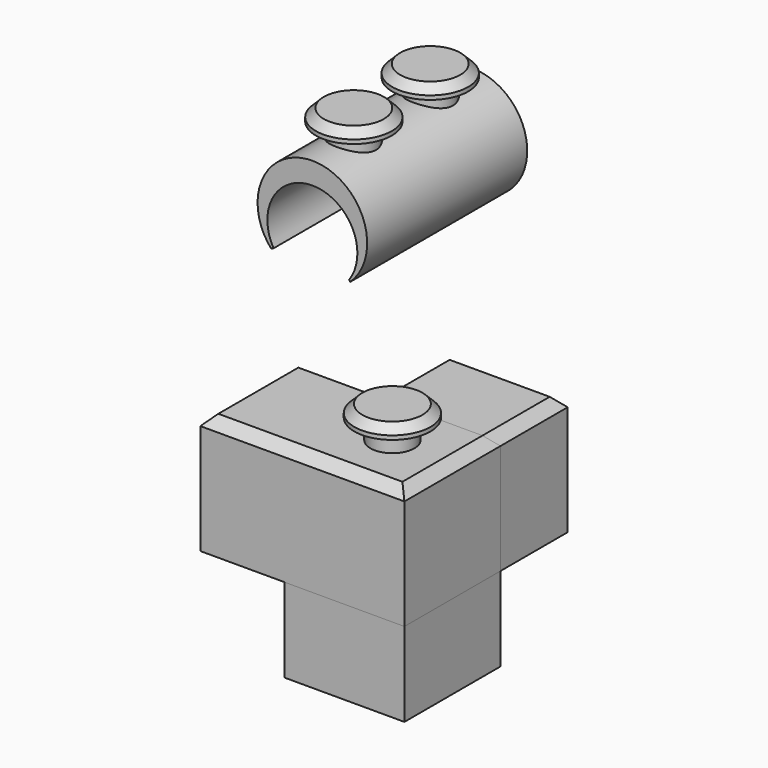
from build123d import *

# Parameters (mm, degrees)
F0_W       = 30
F0_H       = 30
F1_DEPTH   = 15
F3_W       = 30
F3_H       = 30
F3_R       = 10.75
F4_DEPTH   = 21
F5_COUNT   = 2
F5_ANGLE   = 90
F6_W       = 30.0012215599
F6_H       = 30
F6_R       = 10.75
F7_DEPTH   = 21
F9_R       = 5.5
F10_DEPTH  = 5
F11_R      = 9.5
F11_R_2    = 5.5
F12_DEPTH  = 3
F13_SIZE   = 2
F14_SIZE   = 2.5
F14_2_SIZE = 2.5
F16_DEPTH  = 25
F18_R      = 2.5
F19_DEPTH  = 7
F21_R      = 5.5
F22_DEPTH  = 5
F23_R      = 9.5
F24_DEPTH  = 3
F25_SIZE   = 2


with BuildPart() as f1:
    # F0 (on Front) → F1 (new body, symmetric)
    with BuildSketch(Plane.XZ):
        Rectangle(F0_W, F0_H)
    extrude(amount=F1_DEPTH, both=True)

    # F3 (on face) → F4 (join)
    with BuildSketch(Plane(origin=(-15, 0, 0), x_dir=(0, -1, 0), z_dir=(-1, 0, 0))):
        Rectangle(F3_W, F3_H)
        Circle(F3_R, mode=Mode.SUBTRACT)
    extrude(amount=F4_DEPTH)


with BuildPart() as f5_1:
    # F5: instance of F1
    add(f1.part.rotate(Axis((0, 0, -5.7476405054), (0, 0, -1)), 1 * F5_ANGLE / (F5_COUNT - 1)))

    # F14
    f14_edges = [f5_1.edges().sort_by_distance(p)[0] for p in [
        (15, 10.5, 15),
        (0, 36, 15),
        (-15, 10.5, 15),
        (0, -15, 15),
    ]]
    chamfer(f14_edges, length=F14_SIZE)


with BuildPart() as f7:
    # F6 (on face) → F7 (new body)
    with BuildSketch(Plane(origin=(0, 0, -15), x_dir=(1, 0, 0), z_dir=(0, 0, -1))):
        with Locations((-0.00061078, 0)):
            Rectangle(F6_W, F6_H)
        Circle(F6_R, mode=Mode.SUBTRACT)
    extrude(amount=F7_DEPTH)


with BuildPart() as f10:
    # F9 (on offset) → F10 (new body)
    with BuildSketch(Plane.XY.offset(20)):
        Circle(F9_R)
    extrude(amount=-F10_DEPTH)


with BuildPart() as f12:
    # F11 (on face) → F12 (new body)
    with BuildSketch(Plane.XY.offset(20)):
        Circle(F11_R)
        Circle(F11_R_2, mode=Mode.SUBTRACT)
        Circle(F11_R_2)
    extrude(amount=F12_DEPTH)

    # F13
    f13_edges = [f12.edges().sort_by_distance(p)[0] for p in [
        (-9.5, 0, 23),
    ]]
    chamfer(f13_edges, length=F13_SIZE)


with BuildPart() as f1_1:
    add(f1.part)

    # F14#2
    f14_2_edges = [f1_1.edges().sort_by_distance(p)[0] for p in [
        (-10.5, -15, 15),
        (-10.5, 15, 15),
        (-36, 0, 15),
        (15, 0, 15),
    ]]
    chamfer(f14_2_edges, length=F14_2_SIZE)


with BuildPart() as f16:
    # F15 (on Front) → F16 (new body, symmetric)
    with BuildSketch(Plane.XZ):
        with BuildLine():
            Line((-10.3058908372, 63.9432949316), (-9.6855354671, 64.232037034))
            ThreePointArc((-9.6855354671, 64.232037034), (0.447806105, 81.1961362197), (9.1995952199, 63.4797184134))
            Line((9.1995952199, 63.4797184134), (9.4740811403, 63.0731721958))
            ThreePointArc((9.4740811403, 63.0731721958), (0.6018764298, 86.6448375573), (-10.3058908372, 63.9432949316))
        make_face()
    extrude(amount=F16_DEPTH, both=True)

    # F18 (on offset) → F19 (join)
    with BuildSketch(Plane.XY.offset(77)):
        Circle(F18_R)
    extrude(amount=F19_DEPTH)

    # F21 (on offset) → F22 (join)
    with BuildSketch(Plane.XY.offset(90)):
        with Locations((0, 12)):
            Circle(F21_R)
        with Locations((0, -12)):
            Circle(F21_R)
    extrude(amount=-F22_DEPTH)

    # F23 (on offset) + F21 (on offset) → F24 (join)
    with BuildSketch(Plane.XY.offset(90)):
        with Locations((0, 11.8099274114)):
            Circle(F23_R)
        with Locations((0, -12.047437951)):
            Circle(F23_R)
    with BuildSketch(Plane.XY.offset(90)):
        with Locations((0, 12)):
            Circle(F21_R)
        with Locations((0, -12)):
            Circle(F21_R)
    extrude(amount=F24_DEPTH)

    # F25
    f25_edges = [f16.edges().sort_by_distance(p)[0] for p in [
        (-9.5, 11.809927, 93),
        (-9.5, -12.047438, 93),
    ]]
    chamfer(f25_edges, length=F25_SIZE)


solid = Compound([f5_1.part, f7.part, f10.part, f12.part, f1_1.part, f16.part])
